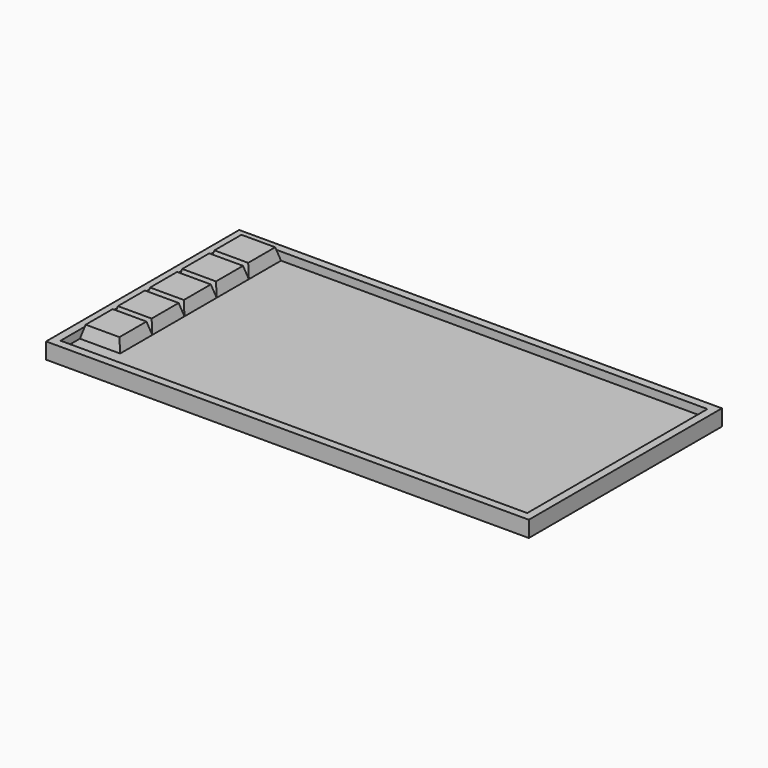
from build123d import *

# Parameters (mm, degrees)
F0_W      = 152.4
F0_H      = 76.2
F1_DEPTH  = 5.08
F2_T      = -2.54
F3_W      = 12.7
F3_H      = 12.7
F4_DEPTH  = 3.81
F4_TAPER  = 15
F5_W      = 12.7
F5_H      = 12.7
F6_DEPTH  = 3.81
F6_TAPER  = 15
F7_W      = 12.7
F7_H      = 12.7
F8_DEPTH  = 3.81
F8_TAPER  = 15
F9_W      = 12.7
F9_H      = 12.7
F10_DEPTH = 3.81
F10_TAPER = 15
F11_W     = 12.7
F11_H     = 12.7
F13_DEPTH = 3.81
F13_TAPER = 15


with BuildPart() as f1:
    # F0 (on Top) → F1 (new body)
    with BuildSketch(Plane.XY):
        with Locations((-40.1846427969, -17.2922080383)):
            Rectangle(F0_W, F0_H)
        with Locations((-40.1846427969, -17.2922080383)):
            Rectangle(F0_W, F0_H)
    extrude(amount=F1_DEPTH)

    # F2
    f2_openings = [f1.faces().sort_by_distance(p)[0] for p in [
        (-40.184643, -17.292208, 5.08),
    ]]
    offset(amount=F2_T, openings=f2_openings)

    # F3 (on face) → F4 (join)
    with BuildSketch(Plane.XY.offset(2.54)):
        with Locations((-107.4946427969, 11.9177919617)):
            Rectangle(F3_W, F3_H)
    extrude(amount=F4_DEPTH, taper=F4_TAPER)

    # F5 (on face) → F6 (join)
    with BuildSketch(Plane.XY.offset(2.54)):
        with Locations((-107.4946427969, -0.7822080383)):
            Rectangle(F5_W, F5_H)
        with Locations((-107.4946427969, -0.7822080383)):
            Rectangle(F5_W, F5_H)
    extrude(amount=F6_DEPTH, taper=F6_TAPER)

    # F7 (on face) → F8 (join)
    with BuildSketch(Plane.XY.offset(2.54)):
        with Locations((-107.4946427969, -13.4822080383)):
            Rectangle(F7_W, F7_H)
    extrude(amount=F8_DEPTH, taper=F8_TAPER)

    # F9 (on face) → F10 (join)
    with BuildSketch(Plane.XY.offset(2.54)):
        with Locations((-107.4946427969, -26.1822080383)):
            Rectangle(F9_W, F9_H)
    extrude(amount=F10_DEPTH, taper=F10_TAPER)

    # F11 (on face) → F13 (join)
    with BuildSketch(Plane.XY.offset(2.54)):
        with Locations((-107.4946427969, -38.8822080383)):
            Rectangle(F11_W, F11_H)
    extrude(amount=F13_DEPTH, taper=F13_TAPER)


solid = f1.part
